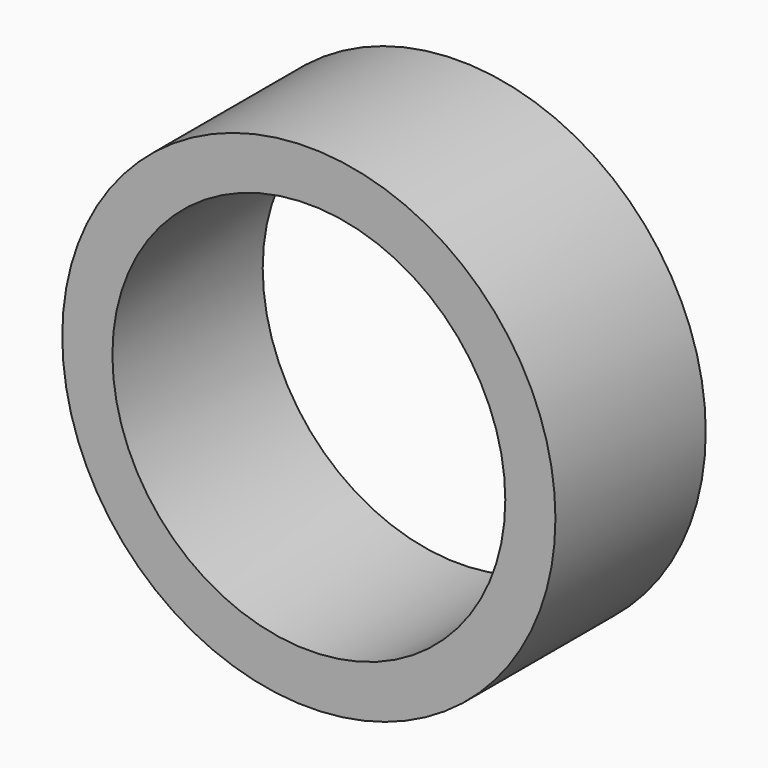
from build123d import *

# Parameters (mm, degrees)
F0_W     = 175.97738
F0_H     = 127.75816
F1_DEPTH = 25.4
F2_R     = 33.3375
F3_DEPTH = 25.4
F4_R     = 26.559613
F5_DEPTH = 25.4


with BuildPart() as f1:
    # F0 (on Front) → F1 (new body)
    with BuildSketch(Plane.XZ):
        Rectangle(F0_W, F0_H)
    extrude(amount=F1_DEPTH)

    # F2 (on face) → F3 (intersect)
    with BuildSketch(Plane.XZ.offset(25.4)):
        Circle(F2_R)
    extrude(amount=-F3_DEPTH, mode=Mode.INTERSECT)

    # F4 (on face) → F5 (cut)
    with BuildSketch(Plane.XZ.offset(25.4)):
        Circle(F4_R)
    extrude(amount=-F5_DEPTH, mode=Mode.SUBTRACT)


solid = f1.part
